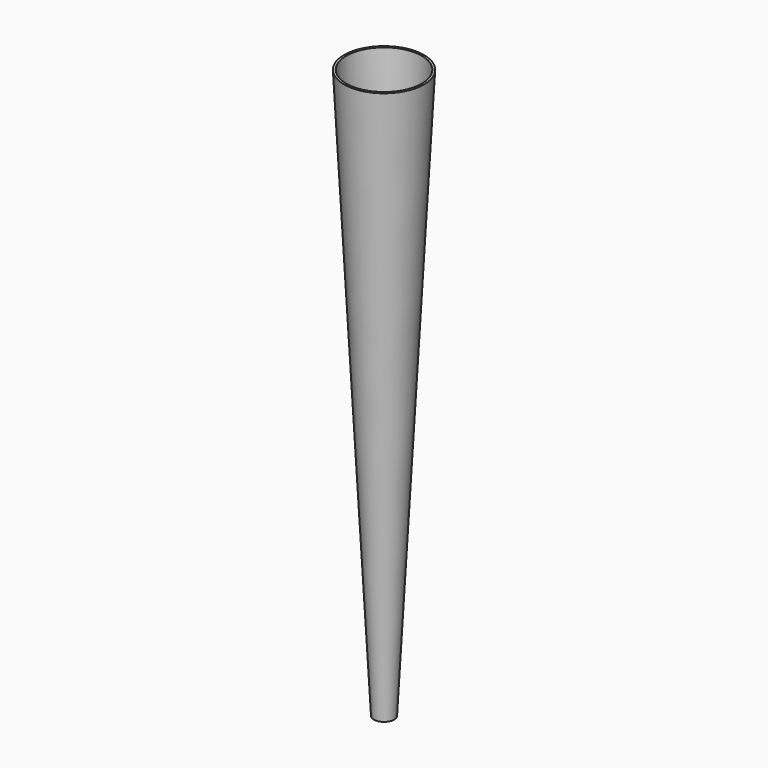
from build123d import *

# Parameters (mm, degrees)
F0_R     = 17.9232754356
F1_DEPTH = 255
F1_TAPER = 3
F2_T     = -1


with BuildPart() as f1:
    # F0 (on Top) → F1 (new body)
    with BuildSketch(Plane.XY):
        with Locations((-31.0999993235, 39.7542779635)):
            Circle(F0_R)
    extrude(amount=-F1_DEPTH, taper=F1_TAPER)

    # F2
    f2_openings = [f1.faces().sort_by_distance(p)[0] for p in [
        (-31.099999, 39.754278, 0),
        (-31.099999, 39.754278, -255),
    ]]
    offset(amount=F2_T, openings=f2_openings, kind=Kind.INTERSECTION)


solid = f1.part
